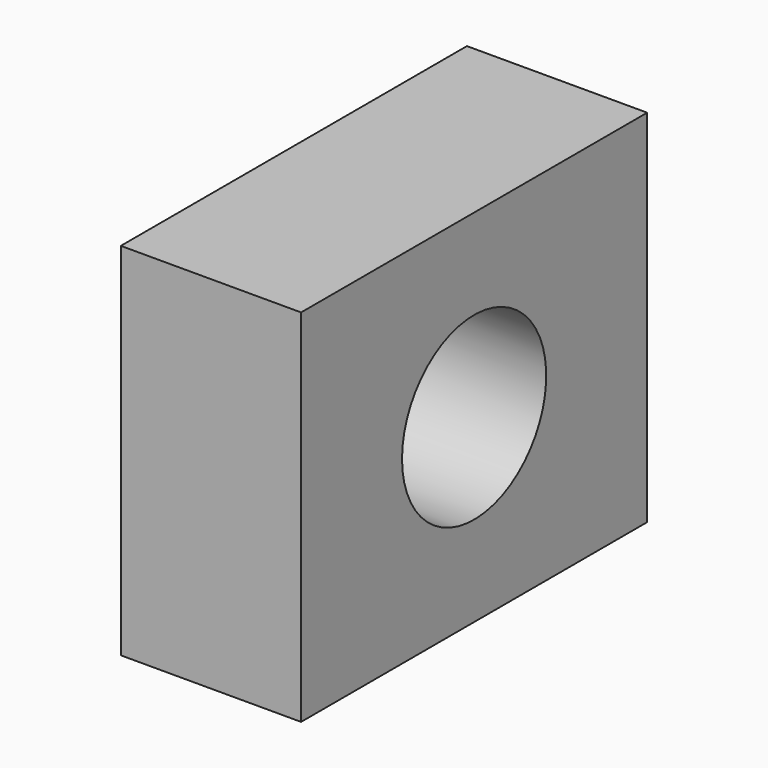
from build123d import *

# Parameters (mm, degrees)
F0_W     = 5
F0_H     = 12
F1_DEPTH = 10
F3_D     = 5


with BuildPart() as f1:
    # F0 (on Top) → F1 (new body)
    with BuildSketch(Plane.XY):
        with Locations((2.5, 6)):
            Rectangle(F0_W, F0_H)
    extrude(amount=F1_DEPTH)

    # F3 (through all)
    with Locations(Plane.YZ.offset(5)):
        with Locations((6, 5)):
            Hole(F3_D / 2)


solid = f1.part
